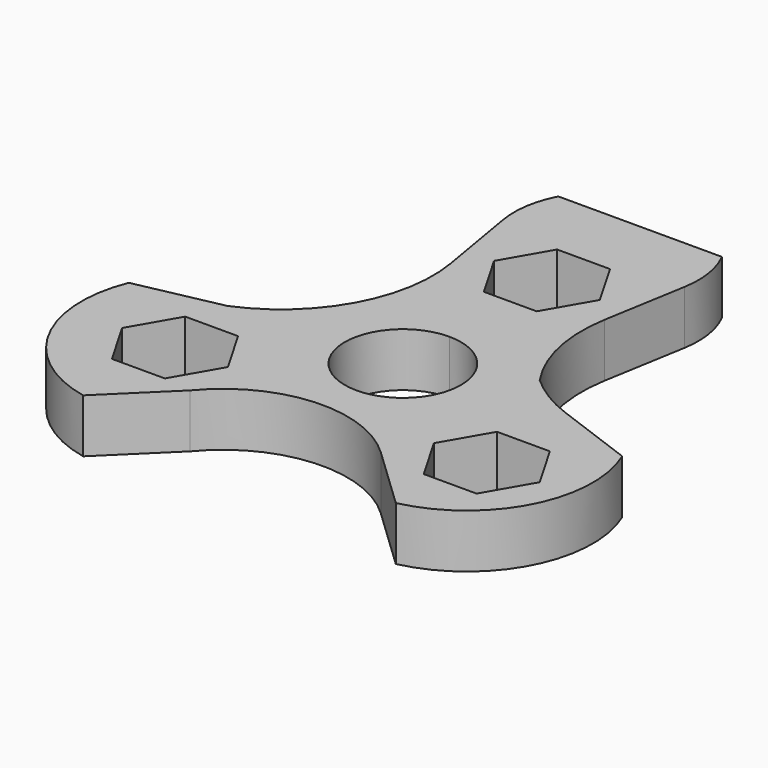
from build123d import *

# Parameters (mm, degrees)
F1_DEPTH = 10.16
F2_DEPTH = 10.16


with BuildPart() as f1:
    # F0 (on Top) → F1 (new body)
    with BuildSketch(Plane.XY):
        with BuildLine():
            Line((-31.7672, -1.802307), (-47.777991, -5.121411))
            Line((-47.777991, -5.121411), (-30.534543, -37.468957))
            Line((-30.534543, -37.468957), (-19.185807, -26.351705))
            ThreePointArc((-19.185807, -26.351705), (-2.4424, -17.805796), (15.218731, -24.244639))
            Line((15.218731, -24.244639), (27.066497, -35.513725))
            ThreePointArc((27.066497, -35.513725), (43.090442, -23.144741), (43.831861, -2.915829))
            Line((43.831861, -2.915829), (28.491493, 2.762567))
            ThreePointArc((28.491493, 2.762567), (23.536918, 5.15939), (19.131085, 8.458057))
            ThreePointArc((19.131085, 8.458057), (14.766541, 18.537353), (14.508489, 29.518011))
            Line((14.508489, 29.518011), (17.181797, 45.178168))
            ThreePointArc((17.181797, 45.178168), (17.224125, 50.784528), (15.484437, 56.114307))
            Line((15.484437, 56.114307), (-15.484437, 56.114307))
            ThreePointArc((-15.484437, 56.114307), (-17.224125, 50.784528), (-17.181797, 45.178168))
            Line((-17.181797, 45.178168), (-14.508489, 29.518011))
            ThreePointArc((-14.508489, 29.518011), (-17.662338, 10.840635), (-31.7672, -1.802307))
        make_face()
        Polygon((-24.499209, -8.366125), (-21.997045, -12.7), (-19.494881, -17.033875), (-24.499209, -25.701625), (-34.507865, -25.701625), (-39.512193, -17.033875), (-34.507865, -8.366125), align=None, mode=Mode.SUBTRACT)
        Polygon((19.496714, -17.0307), (21.997045, -12.7), (24.497376, -8.3693), (24.499209, -8.366125), (34.507865, -8.366125), (39.512193, -17.033875), (34.507865, -25.701625), (24.499209, -25.701625), (19.494881, -17.033875), align=None, mode=Mode.SUBTRACT)
        with BuildLine():
            ThreePointArc((-9.524721, -5.4991), (-9.524721, 5.4991), (0, 10.9982))
            ThreePointArc((0, 10.9982), (7.776902, 7.776902), (10.9982, 0))
            ThreePointArc((10.9982, 0), (10.623445, -2.846544), (9.524721, -5.4991))
            ThreePointArc((9.524721, -5.4991), (5.4991, -9.524721), (0, -10.9982))
            ThreePointArc((0, -10.9982), (-5.4991, -9.524721), (-9.524721, -5.4991))
        make_face(mode=Mode.SUBTRACT)
        Polygon((5.004328, 25.4), (0, 25.4), (-5.004328, 25.4), (-10.008656, 34.06775), (-5.004328, 42.7355), (5.004328, 42.7355), (10.008656, 34.06775), align=None, mode=Mode.SUBTRACT)
    extrude(amount=F1_DEPTH)

    # F0 (on Top) → F2 (join)
    with BuildSketch(Plane.XY):
        with BuildLine():
            Line((-30.534543, -37.468957), (-47.777991, -5.121411))
            ThreePointArc((-47.777991, -5.121411), (-46.738845, -25.337215), (-30.534543, -37.468957))
        make_face()
    extrude(amount=F2_DEPTH)


solid = f1.part
